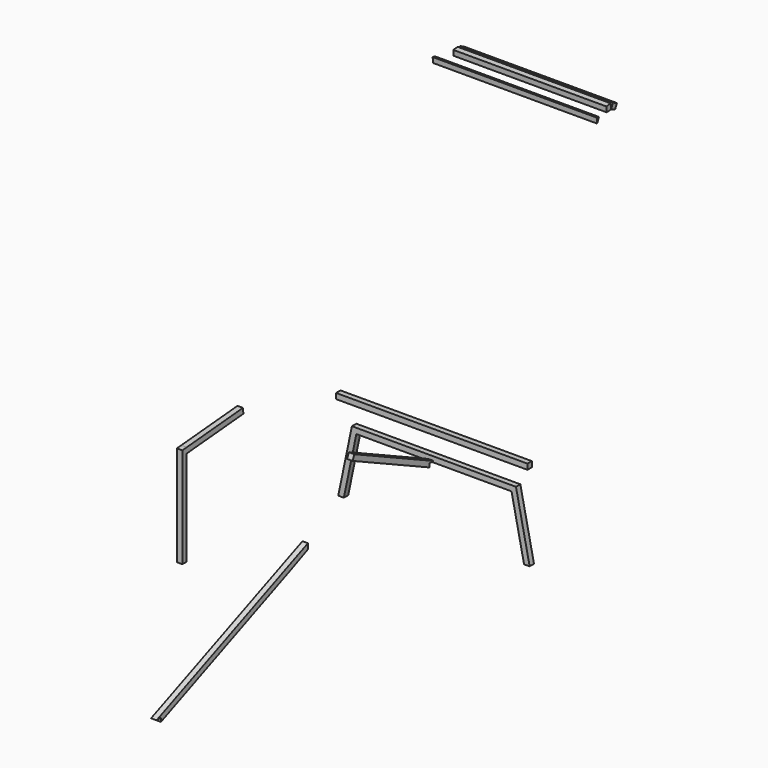
from build123d import *

# Parameters (mm, degrees)
F2_DEPTH  = 20
F4_DEPTH  = 20
F6_DEPTH  = 600
F8_DEPTH  = 560
F10_DEPTH = 20
F11_W     = 40
F11_H     = 40
F12_DEPTH = 700
F14_DEPTH = 20


with BuildPart() as f2:
    # F1 (on Front) → F2 (new body, symmetric)
    with BuildSketch(Plane.XZ):
        Polygon((600, 20), (600, -20), (567.474498, -20), (659.141164, -460), (700, -460), align=None)
        Polygon((567.474498, -20), (600, -20), (600, 20), (-600, 20), (-600, -20), (-567.474498, -20), align=None)
        Polygon((-659.141164, -460), (-567.474498, -20), (-600, -20), (-600, 20), (-700, -460), align=None)
    extrude(amount=F2_DEPTH, both=True)


with BuildPart() as f4:
    # F3 (on Right) → F4 (new body, symmetric)
    with BuildSketch(Plane.YZ):
        Polygon((-87.491836, 8.913082), (-47.491836, 8.913082), (-772.538066, 347.007692), (-789.442796, 310.75538), (-87.491836, -16.569728), align=None)
    extrude(amount=F4_DEPTH, both=True)


with BuildPart() as f6:
    # F5 (on Right) → F6 (new body, symmetric)
    with BuildSketch(Plane.YZ):
        Polygon((718.252358, 2097.051479), (721.738588, 2057.203691), (738.975539, 2093.301085), align=None)
    extrude(amount=F6_DEPTH, both=True)


with BuildPart() as f8:
    # F7 (on face) → F8 (new body, symmetric)
    with BuildSketch(Plane.YZ):
        Polygon((859.940185, 2060.178605), (899.787973, 2063.664835), (896.301743, 2103.512622), (856.453955, 2100.026393), align=None)
        Polygon((917.024925, 2099.762229), (899.787973, 2063.664835), (935.883852, 2046.428607), (953.120803, 2082.526001), align=None)
    extrude(amount=F8_DEPTH, both=True)


with BuildPart() as f10:
    # F9 (on Right) → F10 (new body, symmetric)
    with BuildSketch(Plane.YZ):
        Polygon((-2345.378719, 971.105368), (-2345.378719, 277.902052), (-2305.378719, 277.902052), (-2305.378719, 974.604915), align=None)
        Polygon((-2345.378719, 1011.258162), (-2345.378719, 971.105368), (-2305.378719, 974.604915), (-2305.378719, 1014.757708), align=None)
        Polygon((-2305.378719, 1014.757708), (-2305.378719, 974.604915), (-1787.6619, 1019.899268), (-1791.14813, 1059.747055), align=None)
    extrude(amount=F10_DEPTH, both=True)


with BuildPart() as f12:
    # F11 (on Right) → F12 (new body, symmetric)
    with BuildSketch(Plane.YZ):
        with Locations((-20, 189.844121)):
            Rectangle(F11_W, F11_H)
    extrude(amount=F12_DEPTH, both=True)


with BuildPart() as f14:
    # F13 (on Right) → F14 (new body, symmetric)
    with BuildSketch(Plane.YZ):
        Polygon((-1197.13988, -53.37465), (-2581.412954, -631.118586), (-2541.412954, -631.118586), (-2541.412954, -657.768127), (-1351.412954, -161.106525), (-1197.13988, -93.37465), align=None)
    extrude(amount=F14_DEPTH, both=True)


solid = Compound([f2.part, f4.part, f6.part, f8.part, f10.part, f12.part, f14.part])
